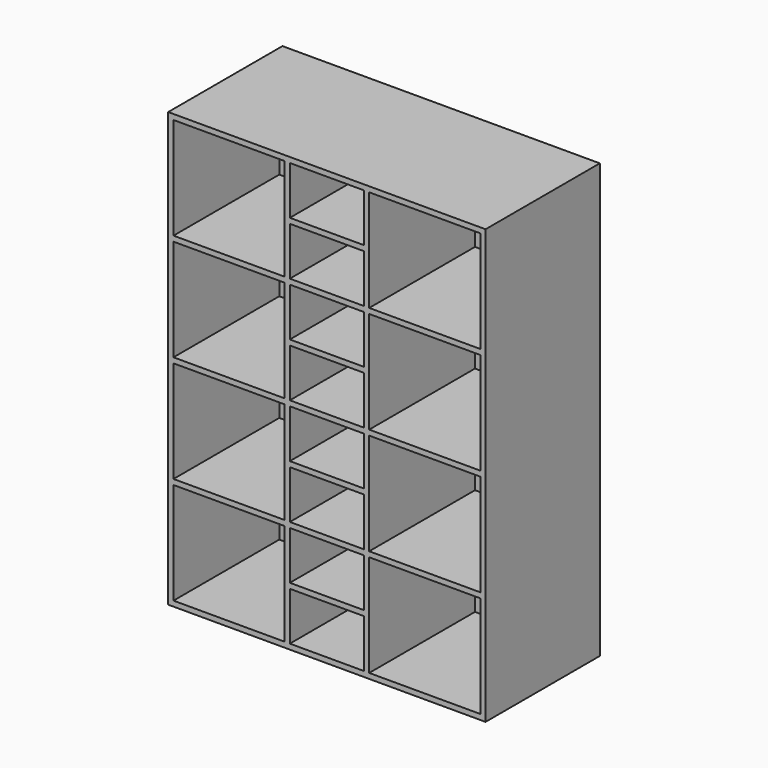
from build123d import *

# Parameters (mm, degrees)
F0_W     = 300
F0_H     = 135
F1_DEPTH = 410
F2_W     = 105
F2_H     = 96.25
F2_W_2   = 70
F2_H_2   = 45.625
F3_DEPTH = 125


with BuildPart() as f1:
    # F0 (on Top) → F1 (new body)
    with BuildSketch(Plane.XY):
        with Locations((150, 67.5)):
            Rectangle(F0_W, F0_H)
    extrude(amount=F1_DEPTH)

    # F2 (on face) → F3 (cut)
    with BuildSketch(Plane.XZ):
        with Locations((242.5, 356.875)):
            Rectangle(F2_W, F2_H)
        with Locations((150, 230.3125)):
            Rectangle(F2_W_2, F2_H_2)
        with Locations((150, 280.9375)):
            Rectangle(F2_W_2, F2_H_2)
        with Locations((150, 331.5625)):
            Rectangle(F2_W_2, F2_H_2)
        with Locations((150, 382.1875)):
            Rectangle(F2_W_2, F2_H_2)
        with Locations((150, 179.6875)):
            Rectangle(F2_W_2, F2_H_2)
        with Locations((150, 129.0625)):
            Rectangle(F2_W_2, F2_H_2)
        with Locations((150, 78.4375)):
            Rectangle(F2_W_2, F2_H_2)
        with Locations((242.5, 53.125)):
            Rectangle(F2_W, F2_H)
        with Locations((150, 27.8125)):
            Rectangle(F2_W_2, F2_H_2)
        with Locations((57.5, 53.125)):
            Rectangle(F2_W, F2_H)
        with Locations((57.5, 154.375)):
            Rectangle(F2_W, F2_H)
        with Locations((57.5, 255.625)):
            Rectangle(F2_W, F2_H)
        with Locations((57.5, 356.875)):
            Rectangle(F2_W, F2_H)
        with Locations((242.5, 255.625)):
            Rectangle(F2_W, F2_H)
        with Locations((242.5, 154.375)):
            Rectangle(F2_W, F2_H)
    extrude(amount=-F3_DEPTH, mode=Mode.SUBTRACT)


solid = f1.part
